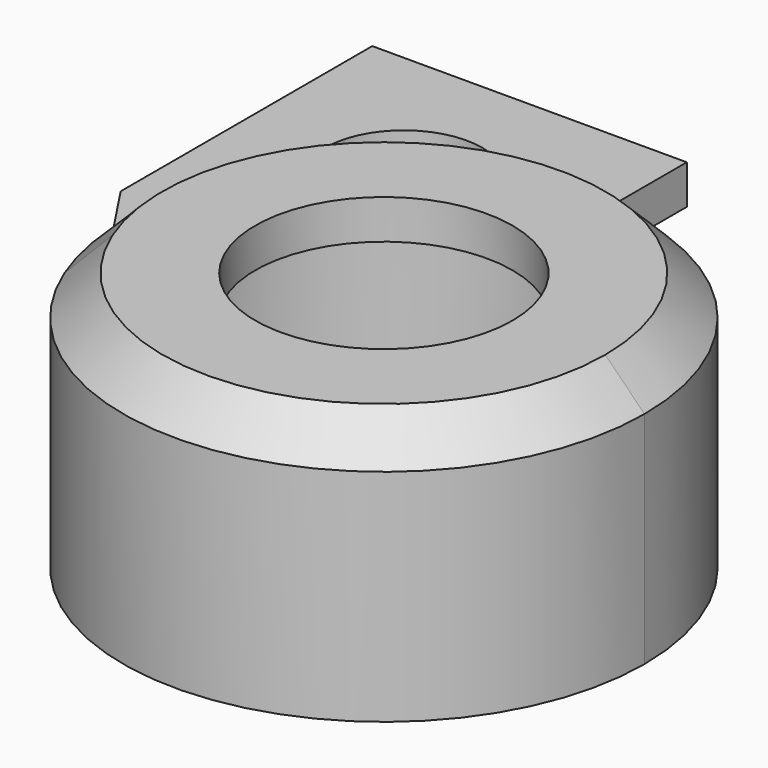
from build123d import *

# Parameters (mm, degrees)
F0_W     = 8
F0_H     = 8
F0_R     = 2
F1_DEPTH = 1
F0_R_2   = 5
F2_DEPTH = 6.6
F3_R     = 5
F3_R_2   = 3.272318
F4_DEPTH = 1
F5_SIZE  = 1


with BuildPart() as f1:
    # F0 (on Top) → F1 (new body)
    with BuildSketch(Plane.XY):
        with Locations((-9, 11.880489)):
            Rectangle(F0_W, F0_H)
        with Locations((-9, 11.880489)):
            Circle(F0_R, mode=Mode.SUBTRACT)
        with BuildLine():
            ThreePointArc((-6.154522, -2.467193), (-6.302399, 2.06033), (-3.508691, 5.626214))
            Line((-3.508691, 5.626214), (-5, 7.880489))
            Line((-5, 7.880489), (-13, 7.880489))
            Line((-13, 7.880489), (-6.154522, -2.467193))
        make_face()
    extrude(amount=F1_DEPTH)

    # F0 (on Top) → F2 (join)
    with BuildSketch(Plane.XY):
        with BuildLine():
            ThreePointArc((-6.154522, -2.467193), (1.256356, -6.510512), (6.630625, 0))
            ThreePointArc((6.630625, 0), (3.217171, 5.797845), (-3.508691, 5.626214))
            ThreePointArc((-3.508691, 5.626214), (-6.302399, 2.06033), (-6.154522, -2.467193))
        make_face()
        Circle(F0_R_2, mode=Mode.SUBTRACT)
    extrude(amount=F2_DEPTH)

    # F3 (on face) → F4 (join)
    with BuildSketch(Plane.XY.offset(6.6)):
        Circle(F3_R)
        Circle(F3_R_2, mode=Mode.SUBTRACT)
    extrude(amount=-F4_DEPTH)

    # F5
    f5_edges = [f1.edges().sort_by_distance(p)[0] for p in [
        (3.508691, -5.626214, 6.6),
    ]]
    chamfer(f5_edges, length=F5_SIZE)


solid = f1.part
